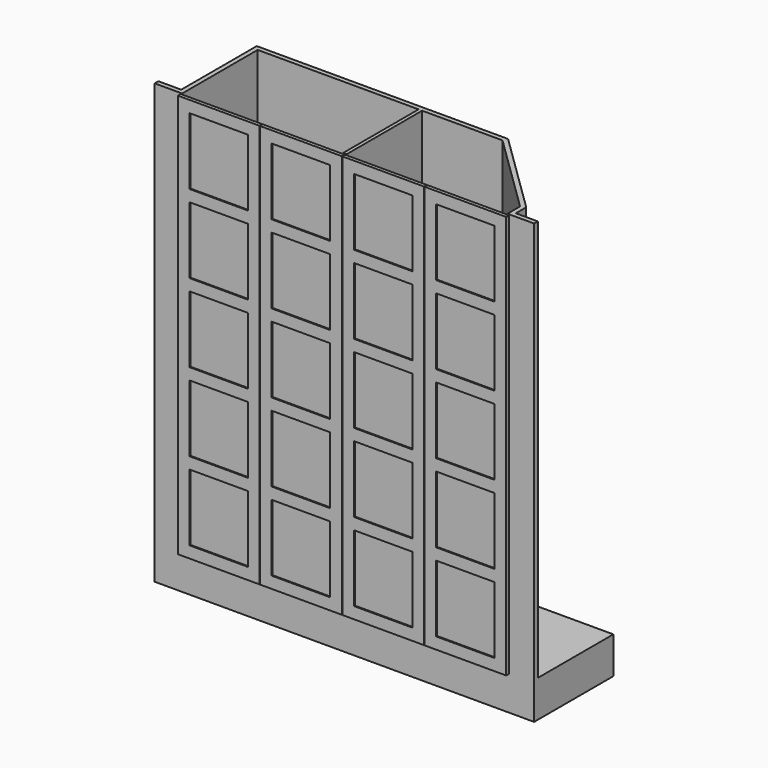
from build123d import *

# Parameters (mm, degrees)
F1_DEPTH  = 2180
F2_W      = 2058.2016706467
F2_H      = 537
F3_DEPTH  = 200
F4_W      = 19
F4_H      = 512
F5_DEPTH  = 2180
F6_W      = 443
F6_H      = 2190
F7_DEPTH  = 19
F8_W      = 317
F8_H      = 362.4
F9_DEPTH  = 6
F10_W     = 873
F10_H     = 19
F12_R     = 15
F13_DEPTH = 873


with BuildPart() as f1:
    # F0 (on Top) → F1 (new body)
    with BuildSketch(Plane.XY):
        Polygon((-1031.4865112305, 0), (-882.5, 0), (-882.5, 512), (445.5, 512), (882.5, 85), (882.5, 0), (1026.7151594162, 0), (1026.7151594162, 25), (907.5, 25), (907.5, 95.5252390221), (455.6862516456, 537), (-907.5, 537), (-907.5, 25), (-1031.4865112305, 25), align=None)
    extrude(amount=F1_DEPTH)

    # F2 (on face) → F3 (join)
    with BuildSketch(Plane(origin=(0, 0, 0), x_dir=(1, 0, 0), z_dir=(0, 0, -1))):
        with Locations((-2.3856759071, -268.5)):
            Rectangle(F2_W, F2_H)
    extrude(amount=F3_DEPTH)

    # F4 (on face) → F5 (join, through all)
    with BuildSketch(Plane.XY):
        with Locations((0, 256)):
            Rectangle(F4_W, F4_H)
    extrude(amount=F5_DEPTH)

    # F6 (on face) → F7 (join)
    with BuildSketch(Plane.XZ):
        with Locations((-223, 1080)):
            Rectangle(F6_W, F6_H)
        with Locations((-669, 1080)):
            Rectangle(F6_W, F6_H)
        with Locations((223, 1080)):
            Rectangle(F6_W, F6_H)
        with Locations((669, 1080)):
            Rectangle(F6_W, F6_H)
    extrude(amount=F7_DEPTH)

    # F8 (on face) → F9 (cut)
    with BuildSketch(Plane.XZ.offset(19)):
        with Locations((-669, 1930.8)):
            Rectangle(F8_W, F8_H)
        with Locations((-669, 1505.4)):
            Rectangle(F8_W, F8_H)
        with Locations((-669, 1080)):
            Rectangle(F8_W, F8_H)
        with Locations((-669, 654.6)):
            Rectangle(F8_W, F8_H)
        with Locations((-669, 229.2)):
            Rectangle(F8_W, F8_H)
        with Locations((-223, 1930.8)):
            Rectangle(F8_W, F8_H)
        with Locations((223, 1930.8)):
            Rectangle(F8_W, F8_H)
        with Locations((669, 1930.8)):
            Rectangle(F8_W, F8_H)
        with Locations((-223, 1505.4)):
            Rectangle(F8_W, F8_H)
        with Locations((223, 1505.4)):
            Rectangle(F8_W, F8_H)
        with Locations((669, 1505.4)):
            Rectangle(F8_W, F8_H)
        with Locations((-223, 1080)):
            Rectangle(F8_W, F8_H)
        with Locations((223, 1080)):
            Rectangle(F8_W, F8_H)
        with Locations((669, 1080)):
            Rectangle(F8_W, F8_H)
        with Locations((-223, 654.6)):
            Rectangle(F8_W, F8_H)
        with Locations((223, 654.6)):
            Rectangle(F8_W, F8_H)
        with Locations((669, 654.6)):
            Rectangle(F8_W, F8_H)
        with Locations((-223, 229.2)):
            Rectangle(F8_W, F8_H)
        with Locations((223, 229.2)):
            Rectangle(F8_W, F8_H)
        with Locations((669, 229.2)):
            Rectangle(F8_W, F8_H)
    extrude(amount=-F9_DEPTH, mode=Mode.SUBTRACT)

    # F10 (on face) → F11 (join, up to the next surface of F1)
    with BuildSketch(Plane.XZ):
        with Locations((-446, 354.5)):
            Rectangle(F10_W, F10_H)
        with Locations((-446, 1810.5)):
            Rectangle(F10_W, F10_H)
        with Locations((-446, 718.5)):
            Rectangle(F10_W, F10_H)
        with Locations((446, 354.5)):
            Rectangle(F10_W, F10_H)
        with Locations((446, 718.5)):
            Rectangle(F10_W, F10_H)
        with Locations((446, 1082.5)):
            Rectangle(F10_W, F10_H)
        with Locations((446, 1446.5)):
            Rectangle(F10_W, F10_H)
        with Locations((446, 1810.5)):
            Rectangle(F10_W, F10_H)
    extrude(until=Until.NEXT, dir=(0, 1, 0))

    # F12 (on face) → F13 (join, through all)
    with BuildSketch(Plane.YZ.offset(-882.5)):
        with Locations((256, 1751)):
            Circle(F12_R)
    extrude(amount=F13_DEPTH)


solid = f1.part
